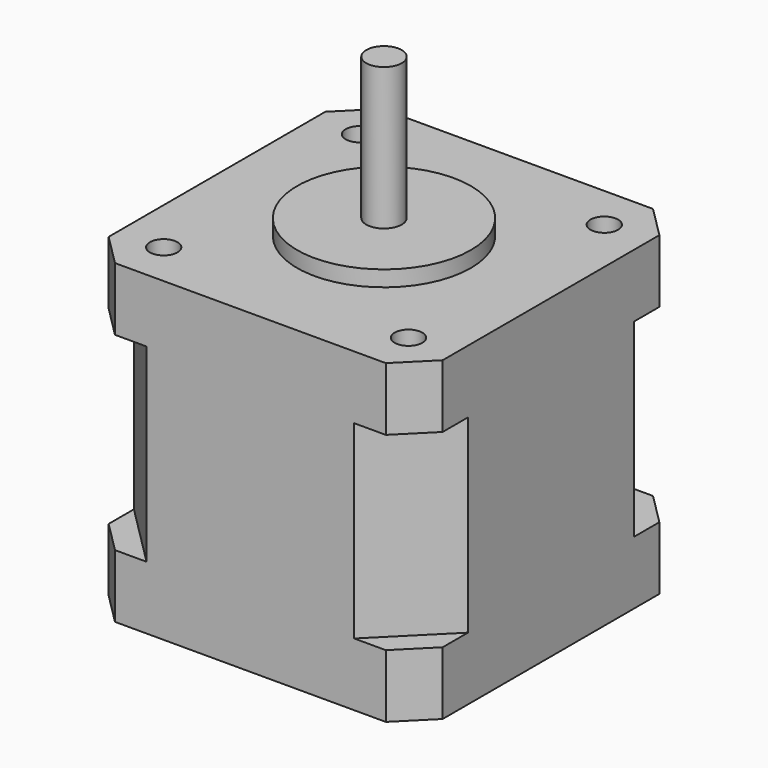
from build123d import *

# Parameters (mm, degrees)
F1_R      = 11
F1_R_2    = 2.25
F2_DEPTH  = 2
F1_R_3    = 1.75
F3_DEPTH  = 8
F4_DEPTH  = 4.5
F5_DEPTH  = 20
F7_DEPTH  = 24
F9_DEPTH  = 8
F10_R     = 4
F11_DEPTH = 1


with BuildPart() as f2:
    # F1 (on Top) → F2 (new body)
    with BuildSketch(Plane.XY):
        Circle(F1_R)
        Circle(F1_R_2, mode=Mode.SUBTRACT)
    extrude(amount=F2_DEPTH)

    # F1 (on Top) → F3 (join)
    with BuildSketch(Plane.XY):
        Polygon((21.15, 17.15), (17.15, 21.15), (-17.15, 21.15), (-21.15, 17.15), (-21.15, -17.15), (-17.15, -21.15), (17.15, -21.15), (21.15, -17.15), align=None)
        with Locations((-15.5, -15.5)):
            Circle(F1_R_3, mode=Mode.SUBTRACT)
        with Locations((15.5, -15.5)):
            Circle(F1_R_3, mode=Mode.SUBTRACT)
        with Locations((-15.5, 15.5)):
            Circle(F1_R_3, mode=Mode.SUBTRACT)
        Circle(F1_R, mode=Mode.SUBTRACT)
        with Locations((15.5, 15.5)):
            Circle(F1_R_3, mode=Mode.SUBTRACT)
        Circle(F1_R)
        Circle(F1_R_2, mode=Mode.SUBTRACT)
        Circle(F1_R_2)
        with Locations((15.5, -15.5)):
            Circle(F1_R_3)
        with Locations((-15.5, -15.5)):
            Circle(F1_R_3)
        with Locations((-15.5, 15.5)):
            Circle(F1_R_3)
        with Locations((15.5, 15.5)):
            Circle(F1_R_3)
    extrude(amount=-F3_DEPTH)

    # F1 (on Top) → F4 (cut)
    with BuildSketch(Plane.XY):
        with Locations((-15.5, 15.5)):
            Circle(F1_R_3)
        with Locations((15.5, 15.5)):
            Circle(F1_R_3)
        with Locations((15.5, -15.5)):
            Circle(F1_R_3)
        with Locations((-15.5, -15.5)):
            Circle(F1_R_3)
    extrude(amount=-F4_DEPTH, mode=Mode.SUBTRACT)

    # F1 (on Top) → F5 (join)
    with BuildSketch(Plane.XY):
        Circle(F1_R_2)
    extrude(amount=F5_DEPTH)

    # F6 (on face) → F7 (join)
    with BuildSketch(Plane(origin=(0, 0, -8), x_dir=(1, 0, 0), z_dir=(0, 0, -1))):
        Polygon((-13.15, 21.15), (-21.15, 13.15), (-21.15, -13.15), (-13.15, -21.15), (13.15, -21.15), (21.15, -13.15), (21.15, 13.15), (13.15, 21.15), align=None)
    extrude(amount=F7_DEPTH)

    # F8 (on face) → F9 (join)
    with BuildSketch(Plane(origin=(0, 0, -32), x_dir=(1, 0, 0), z_dir=(0, 0, -1))):
        Polygon((-13.15, 21.15), (-17.15, 21.15), (-21.15, 17.15), (-21.15, 13.15), align=None)
        Polygon((13.15, 21.15), (-13.15, 21.15), (-21.15, 13.15), (-21.15, -13.15), (-13.15, -21.15), (13.15, -21.15), (21.15, -13.15), (21.15, 13.15), align=None)
        Polygon((17.15, 21.15), (13.15, 21.15), (21.15, 13.15), (21.15, 17.15), align=None)
        Polygon((21.15, -17.15), (21.15, -13.15), (13.15, -21.15), (17.15, -21.15), align=None)
        Polygon((-13.15, -21.15), (-21.15, -13.15), (-21.15, -17.15), (-17.15, -21.15), align=None)
    extrude(amount=F9_DEPTH)

    # F10 (on face) → F11 (cut)
    with BuildSketch(Plane(origin=(0, 0, -40), x_dir=(1, 0, 0), z_dir=(0, 0, -1))):
        Circle(F10_R)
    extrude(amount=-F11_DEPTH, mode=Mode.SUBTRACT)


solid = f2.part
